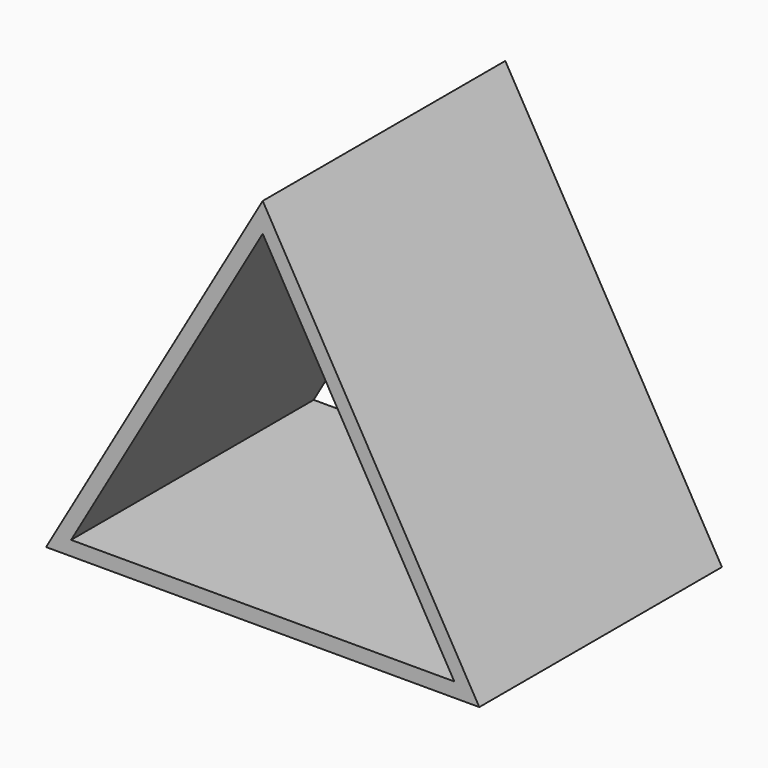
from build123d import *

# Parameters (mm, degrees)
F1_DEPTH = 105


with BuildPart() as f1:
    # F0 (on Front) → F1 (new body)
    with BuildSketch(Plane.XZ):
        Polygon((0.23656, 55.358978), (-74.76344, -74.544832), (75.23656, -74.544832), align=None)
        Polygon((-66.103186, -69.544832), (0.23656, 45.358978), (66.576306, -69.544832), align=None, mode=Mode.SUBTRACT)
    extrude(amount=F1_DEPTH)


solid = f1.part
